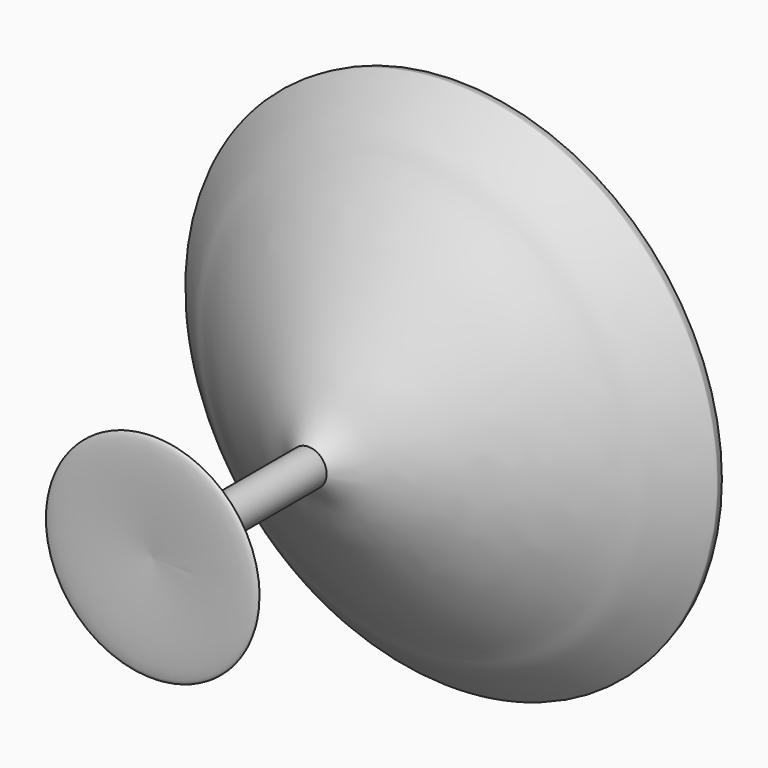
from build123d import *


with BuildPart() as f1:
    # F0 (on Top) → F1 (revolve)
    with BuildSketch(Plane.XY):
        with BuildLine():
            Line((58.189086616, 40.9320294857), (0, 40.9320294857))
            Line((0, 40.9320294857), (0, -42.9287198931))
            add(Edge.make_bspline(
                [(3.9933663793, -39.2205901444), (6.0042002758, -38.9765464074), (10.294133426, -39.4852499016), (15.1264026482, -38.614279271), (31.339238011, -45.0650967465), (8.9392229898, -43.593254007), (0, -42.9287198931)],
                knots=[0, 0, 0, 0, 0.1943881629, 0.3888863474, 0.6158799374, 1, 1, 1, 1], degree=3))
            Line((3.9933663793, -39.2205901444), (3.9933663793, 0))
            add(Edge.make_bspline(
                [(58.189086616, 40.9320294857), (58.5087683799, 39.1348608143), (59.1006005672, 39.9597293712), (48.9620033089, 29.9040594274), (46.6351622342, 29.0802610309), (36.0519934998, 20.1997355219), (25.6473393716, 13.7908619751), (15.5248255608, 7.1246609262), (7.8378454111, 3.9451368352), (5.2699525636, 1.4277245404), (3.9933663793, 0)],
                knots=[0, 0, 0, 0, 0.0625682575, 0.216647623, 0.2992709205, 0.4565014614, 0.6184076202, 0.772014536, 0.8975484084, 1, 1, 1, 1], degree=3))
        make_face()
    revolve(axis=Axis((0, -0.9983452037, 0), (0, -1, 0)))


solid = f1.part
